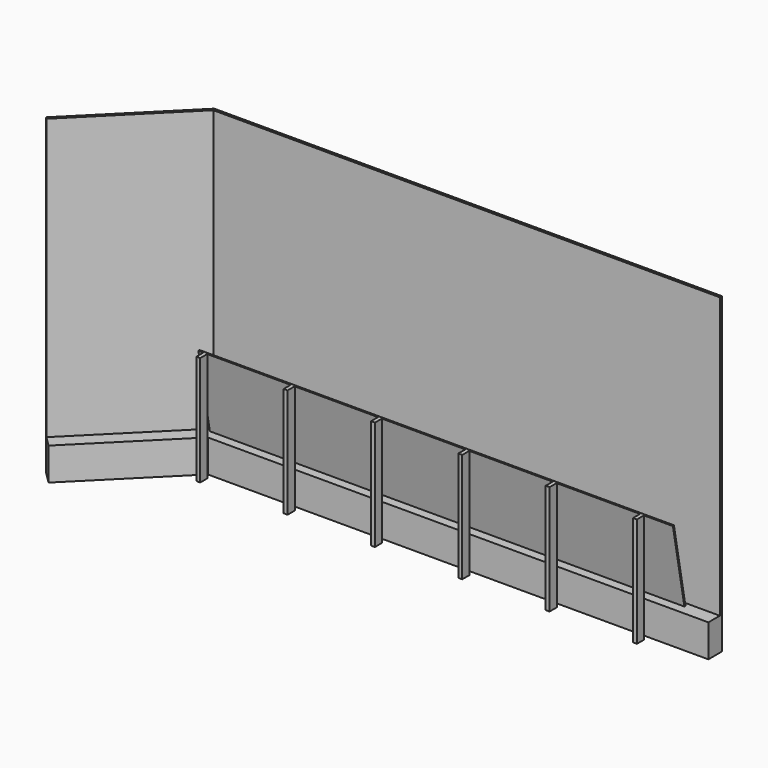
from build123d import *

# Parameters (mm, degrees)
F1_DEPTH      = 317.5
F3_DEPTH      = 3048
F4_W          = 38.1
F4_H          = 88.9
F5_DEPTH      = 1066.8
F8_DEPTH      = 4572
F8_DEPTH_BACK = 50.8


with BuildPart() as f1:
    # F0 (on Top) → F1 (new body)
    with BuildSketch(Plane.XY):
        Polygon((4934.6656346635, 0), (0, 0), (-903.0217702909, -903.0217702909), (-804.2389529591, -1001.8045876226), (57.8656346635, -139.7), (4934.6656346635, -139.7), align=None)
    extrude(amount=F1_DEPTH)

    # F2 (on face) → F3 (join)
    with BuildSketch(Plane(origin=(0, 0, 0), x_dir=(1, 0, 0), z_dir=(0, 0, -1))):
        Polygon((0, 0), (-903.0217702909, 903.0217702909), (-920.982282533, 885.0612580487), (-10.5210244843, -25.4), (4934.6656346635, -25.4), (4934.6656346635, 0), align=None)
    extrude(amount=-F3_DEPTH)



with BuildPart() as f5:
    # F4 (on face) → F5 (new body)
    with BuildSketch(Plane(origin=(0, 0, 0), x_dir=(1, 0, 0), z_dir=(0, 0, -1))):
        with Locations((76.9156346635, 234.95)):
            Rectangle(F4_W, F4_H)
    extrude(amount=-F5_DEPTH)


with BuildPart() as f5b:
    # F4 (on face) → F5, piece 2 (new body)
    with BuildSketch(Plane(origin=(0, 0, 0), x_dir=(1, 0, 0), z_dir=(0, 0, -1))):
        with Locations((927.8156346635, 234.95)):
            Rectangle(F4_W, F4_H)
    extrude(amount=-F5_DEPTH)


with BuildPart() as f5c:
    # F4 (on face) → F5, piece 3 (new body)
    with BuildSketch(Plane(origin=(0, 0, 0), x_dir=(1, 0, 0), z_dir=(0, 0, -1))):
        with Locations((1778.7156346635, 234.95)):
            Rectangle(F4_W, F4_H)
    extrude(amount=-F5_DEPTH)


with BuildPart() as f5d:
    # F4 (on face) → F5, piece 4 (new body)
    with BuildSketch(Plane(origin=(0, 0, 0), x_dir=(1, 0, 0), z_dir=(0, 0, -1))):
        with Locations((2629.6156346635, 234.95)):
            Rectangle(F4_W, F4_H)
    extrude(amount=-F5_DEPTH)


with BuildPart() as f5e:
    # F4 (on face) → F5, piece 5 (new body)
    with BuildSketch(Plane(origin=(0, 0, 0), x_dir=(1, 0, 0), z_dir=(0, 0, -1))):
        with Locations((3480.5156346635, 234.95)):
            Rectangle(F4_W, F4_H)
    extrude(amount=-F5_DEPTH)


with BuildPart() as f5f:
    # F4 (on face) → F5, piece 6 (new body)
    with BuildSketch(Plane(origin=(0, 0, 0), x_dir=(1, 0, 0), z_dir=(0, 0, -1))):
        with Locations((4331.4156346635, 234.95)):
            Rectangle(F4_W, F4_H)
    extrude(amount=-F5_DEPTH)


with BuildPart() as f1_1:
    add(f1.part)

    add(f5.part)  # F8 merges F5

    add(f5b.part)  # F8 merges F5b

    add(f5c.part)  # F8 merges F5c

    add(f5d.part)  # F8 merges F5d

    add(f5e.part)  # F8 merges F5e

    add(f5f.part)  # F8 merges F5f
    # F7 (on face) → F8 (join, two sides)
    with BuildSketch(Plane(origin=(57.8656346635, 0, 0), x_dir=(0, -1, 0), z_dir=(-1, 0, 0))) as f8_sk:
        Polygon((178.0171050144, 1066.8), (38.1, 319.8382328325), (50.5828949856, 317.5), (190.5, 1064.4617671675), align=None)
    extrude(amount=-F8_DEPTH)
    extrude(f8_sk.sketch, amount=F8_DEPTH_BACK)


solid = f1_1.part
